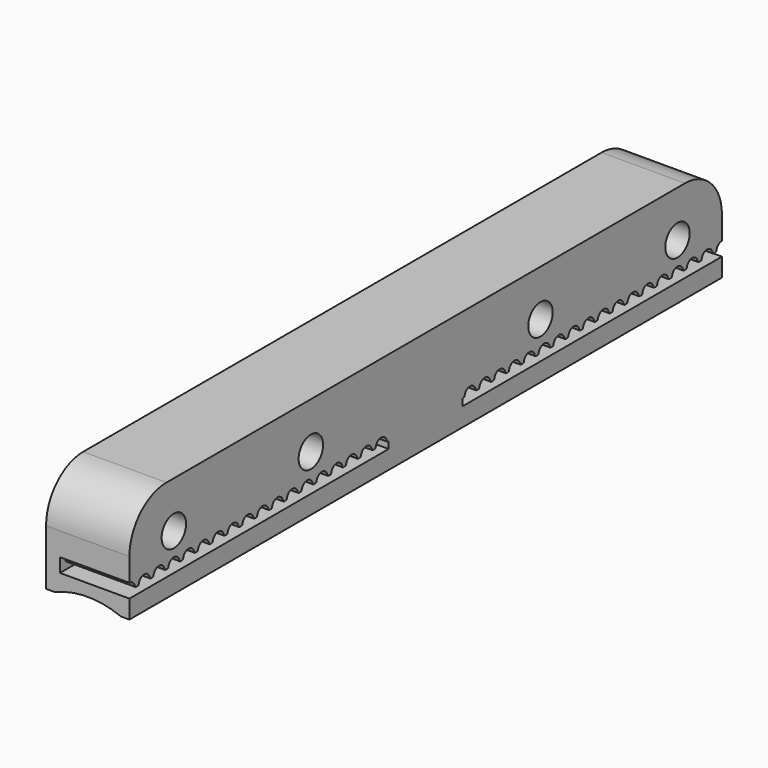
from build123d import *

# Parameters (mm, degrees)
F0_W     = 80
F0_H     = 11
F0_R     = 1.65
F1_DEPTH = 9
F3_DEPTH = 7.5
F4_R     = 5
F5_R     = 9.5
F6_DEPTH = 80.001


with BuildPart() as f1:
    # F0 (on Right) → F1 (new body)
    with BuildSketch(Plane.YZ):
        with Locations((40, 5.5)):
            Rectangle(F0_W, F0_H)
        with Locations((6, 6)):
            Circle(F0_R, mode=Mode.SUBTRACT)
        with Locations((24.5, 6)):
            Circle(F0_R, mode=Mode.SUBTRACT)
        with Locations((55.5, 6)):
            Circle(F0_R, mode=Mode.SUBTRACT)
        with Locations((74, 6)):
            Circle(F0_R, mode=Mode.SUBTRACT)
    extrude(amount=F1_DEPTH)

    # F2 (on face) → F3 (cut)
    with BuildSketch(Plane.YZ.offset(9)):
        with BuildLine():
            Line((-1, 2), (0, 2))
            Line((0, 2), (35, 2))
            Line((35, 2), (35, 2.75))
            Line((35, 2.75), (34.887412, 2.75))
            ThreePointArc((34.887412, 2.75), (34.790587, 2.785436), (34.73951, 2.875))
            ThreePointArc((34.73951, 2.875), (34, 3.5), (33.26049, 2.875))
            ThreePointArc((33.26049, 2.875), (33.209413, 2.785436), (33.112588, 2.75))
            Line((33.112588, 2.75), (32.887412, 2.75))
            ThreePointArc((32.887412, 2.75), (32.790587, 2.785436), (32.73951, 2.875))
            ThreePointArc((32.73951, 2.875), (32, 3.5), (31.26049, 2.875))
            ThreePointArc((31.26049, 2.875), (31.209413, 2.785436), (31.112588, 2.75))
            Line((31.112588, 2.75), (30.887412, 2.75))
            ThreePointArc((30.887412, 2.75), (30.790587, 2.785436), (30.73951, 2.875))
            ThreePointArc((30.73951, 2.875), (30, 3.5), (29.26049, 2.875))
            ThreePointArc((29.26049, 2.875), (29.209413, 2.785436), (29.112588, 2.75))
            Line((29.112588, 2.75), (28.887412, 2.75))
            ThreePointArc((28.887412, 2.75), (28.790587, 2.785436), (28.73951, 2.875))
            ThreePointArc((28.73951, 2.875), (28, 3.5), (27.26049, 2.875))
            ThreePointArc((27.26049, 2.875), (27.209413, 2.785436), (27.112588, 2.75))
            Line((27.112588, 2.75), (27, 2.75))
            Line((27, 2.75), (26.887412, 2.75))
            ThreePointArc((26.887412, 2.75), (26.790587, 2.785436), (26.73951, 2.875))
            ThreePointArc((26.73951, 2.875), (26, 3.5), (25.26049, 2.875))
            ThreePointArc((25.26049, 2.875), (25.209413, 2.785436), (25.112588, 2.75))
            Line((25.112588, 2.75), (24.887412, 2.75))
            ThreePointArc((24.887412, 2.75), (24.790587, 2.785436), (24.73951, 2.875))
            ThreePointArc((24.73951, 2.875), (24, 3.5), (23.26049, 2.875))
            ThreePointArc((23.26049, 2.875), (23.209413, 2.785436), (23.112588, 2.75))
            Line((23.112588, 2.75), (23, 2.75))
            Line((23, 2.75), (22.887412, 2.75))
            ThreePointArc((22.887412, 2.75), (22.790587, 2.785436), (22.73951, 2.875))
            ThreePointArc((22.73951, 2.875), (22, 3.5), (21.26049, 2.875))
            ThreePointArc((21.26049, 2.875), (21.209413, 2.785436), (21.112588, 2.75))
            Line((21.112588, 2.75), (20.887412, 2.75))
            ThreePointArc((20.887412, 2.75), (20.790587, 2.785436), (20.73951, 2.875))
            ThreePointArc((20.73951, 2.875), (20, 3.5), (19.26049, 2.875))
            ThreePointArc((19.26049, 2.875), (19.209413, 2.785436), (19.112588, 2.75))
            Line((19.112588, 2.75), (19, 2.75))
            Line((19, 2.75), (18.887412, 2.75))
            ThreePointArc((18.887412, 2.75), (18.790587, 2.785436), (18.73951, 2.875))
            ThreePointArc((18.73951, 2.875), (18, 3.5), (17.26049, 2.875))
            ThreePointArc((17.26049, 2.875), (17.209413, 2.785436), (17.112588, 2.75))
            Line((17.112588, 2.75), (16.887412, 2.75))
            ThreePointArc((16.887412, 2.75), (16.790587, 2.785436), (16.73951, 2.875))
            ThreePointArc((16.73951, 2.875), (16, 3.5), (15.26049, 2.875))
            ThreePointArc((15.26049, 2.875), (15.209413, 2.785436), (15.112588, 2.75))
            Line((15.112588, 2.75), (15, 2.75))
            Line((15, 2.75), (14.887412, 2.75))
            ThreePointArc((14.887412, 2.75), (14.790587, 2.785436), (14.73951, 2.875))
            ThreePointArc((14.73951, 2.875), (14, 3.5), (13.26049, 2.875))
            ThreePointArc((13.26049, 2.875), (13.209413, 2.785436), (13.112588, 2.75))
            Line((13.112588, 2.75), (12.887412, 2.75))
            ThreePointArc((12.887412, 2.75), (12.790587, 2.785436), (12.73951, 2.875))
            ThreePointArc((12.73951, 2.875), (12, 3.5), (11.26049, 2.875))
            ThreePointArc((11.26049, 2.875), (11.209413, 2.785436), (11.112588, 2.75))
            Line((11.112588, 2.75), (11, 2.75))
            Line((11, 2.75), (10.887412, 2.75))
            ThreePointArc((10.887412, 2.75), (10.790587, 2.785436), (10.73951, 2.875))
            ThreePointArc((10.73951, 2.875), (10, 3.5), (9.26049, 2.875))
            ThreePointArc((9.26049, 2.875), (9.209413, 2.785436), (9.112588, 2.75))
            Line((9.112588, 2.75), (8.887412, 2.75))
            ThreePointArc((8.887412, 2.75), (8.790587, 2.785436), (8.73951, 2.875))
            ThreePointArc((8.73951, 2.875), (8, 3.5), (7.26049, 2.875))
            ThreePointArc((7.26049, 2.875), (7.209413, 2.785436), (7.112588, 2.75))
            Line((7.112588, 2.75), (7, 2.75))
            Line((7, 2.75), (6.887412, 2.75))
            ThreePointArc((6.887412, 2.75), (6.790587, 2.785436), (6.73951, 2.875))
            ThreePointArc((6.73951, 2.875), (6, 3.5), (5.26049, 2.875))
            ThreePointArc((5.26049, 2.875), (5.209413, 2.785436), (5.112588, 2.75))
            Line((5.112588, 2.75), (4.887412, 2.75))
            ThreePointArc((4.887412, 2.75), (4.790587, 2.785436), (4.73951, 2.875))
            ThreePointArc((4.73951, 2.875), (4, 3.5), (3.26049, 2.875))
            ThreePointArc((3.26049, 2.875), (3.209413, 2.785436), (3.112588, 2.75))
            Line((3.112588, 2.75), (3, 2.75))
            Line((3, 2.75), (2.887412, 2.75))
            ThreePointArc((2.887412, 2.75), (2.790587, 2.785436), (2.73951, 2.875))
            ThreePointArc((2.73951, 2.875), (2, 3.5), (1.26049, 2.875))
            ThreePointArc((1.26049, 2.875), (1.209413, 2.785436), (1.112588, 2.75))
            Line((1.112588, 2.75), (0.887412, 2.75))
            ThreePointArc((0.887412, 2.75), (0.790587, 2.785436), (0.73951, 2.875))
            ThreePointArc((0.73951, 2.875), (0, 3.5), (-0.73951, 2.875))
            ThreePointArc((-0.73951, 2.875), (-0.790587, 2.785436), (-0.887412, 2.75))
            Line((-0.887412, 2.75), (-1, 2.75))
            Line((-1, 2.75), (-1, 2))
        make_face()
        with BuildLine():
            Line((45, 2.75), (45, 2))
            Line((45, 2), (80, 2))
            Line((80, 2), (81, 2))
            Line((81, 2), (81, 2.75))
            Line((81, 2.75), (80.887412, 2.75))
            ThreePointArc((80.887412, 2.75), (80.790587, 2.785436), (80.73951, 2.875))
            ThreePointArc((80.73951, 2.875), (80, 3.5), (79.26049, 2.875))
            ThreePointArc((79.26049, 2.875), (79.209413, 2.785436), (79.112588, 2.75))
            Line((79.112588, 2.75), (78.887412, 2.75))
            ThreePointArc((78.887412, 2.75), (78.790587, 2.785436), (78.73951, 2.875))
            ThreePointArc((78.73951, 2.875), (78, 3.5), (77.26049, 2.875))
            ThreePointArc((77.26049, 2.875), (77.209413, 2.785436), (77.112588, 2.75))
            Line((77.112588, 2.75), (77, 2.75))
            Line((77, 2.75), (76.887412, 2.75))
            ThreePointArc((76.887412, 2.75), (76.790587, 2.785436), (76.73951, 2.875))
            ThreePointArc((76.73951, 2.875), (76, 3.5), (75.26049, 2.875))
            ThreePointArc((75.26049, 2.875), (75.209413, 2.785436), (75.112588, 2.75))
            Line((75.112588, 2.75), (74.887412, 2.75))
            ThreePointArc((74.887412, 2.75), (74.790587, 2.785436), (74.73951, 2.875))
            ThreePointArc((74.73951, 2.875), (74, 3.5), (73.26049, 2.875))
            ThreePointArc((73.26049, 2.875), (73.209413, 2.785436), (73.112588, 2.75))
            Line((73.112588, 2.75), (73, 2.75))
            Line((73, 2.75), (72.887412, 2.75))
            ThreePointArc((72.887412, 2.75), (72.790587, 2.785436), (72.73951, 2.875))
            ThreePointArc((72.73951, 2.875), (72, 3.5), (71.26049, 2.875))
            ThreePointArc((71.26049, 2.875), (71.209413, 2.785436), (71.112588, 2.75))
            Line((71.112588, 2.75), (70.887412, 2.75))
            ThreePointArc((70.887412, 2.75), (70.790587, 2.785436), (70.73951, 2.875))
            ThreePointArc((70.73951, 2.875), (70, 3.5), (69.26049, 2.875))
            ThreePointArc((69.26049, 2.875), (69.209413, 2.785436), (69.112588, 2.75))
            Line((69.112588, 2.75), (69, 2.75))
            Line((69, 2.75), (68.887412, 2.75))
            ThreePointArc((68.887412, 2.75), (68.790587, 2.785436), (68.73951, 2.875))
            ThreePointArc((68.73951, 2.875), (68, 3.5), (67.26049, 2.875))
            ThreePointArc((67.26049, 2.875), (67.209413, 2.785436), (67.112588, 2.75))
            Line((67.112588, 2.75), (66.887412, 2.75))
            ThreePointArc((66.887412, 2.75), (66.790587, 2.785436), (66.73951, 2.875))
            ThreePointArc((66.73951, 2.875), (66, 3.5), (65.26049, 2.875))
            ThreePointArc((65.26049, 2.875), (65.209413, 2.785436), (65.112588, 2.75))
            Line((65.112588, 2.75), (65, 2.75))
            Line((65, 2.75), (64.887412, 2.75))
            ThreePointArc((64.887412, 2.75), (64.790587, 2.785436), (64.73951, 2.875))
            ThreePointArc((64.73951, 2.875), (64, 3.5), (63.26049, 2.875))
            ThreePointArc((63.26049, 2.875), (63.209413, 2.785436), (63.112588, 2.75))
            Line((63.112588, 2.75), (62.887412, 2.75))
            ThreePointArc((62.887412, 2.75), (62.790587, 2.785436), (62.73951, 2.875))
            ThreePointArc((62.73951, 2.875), (62, 3.5), (61.26049, 2.875))
            ThreePointArc((61.26049, 2.875), (61.209413, 2.785436), (61.112588, 2.75))
            Line((61.112588, 2.75), (61, 2.75))
            Line((61, 2.75), (60.887412, 2.75))
            ThreePointArc((60.887412, 2.75), (60.790587, 2.785436), (60.73951, 2.875))
            ThreePointArc((60.73951, 2.875), (60, 3.5), (59.26049, 2.875))
            ThreePointArc((59.26049, 2.875), (59.209413, 2.785436), (59.112588, 2.75))
            Line((59.112588, 2.75), (58.887412, 2.75))
            ThreePointArc((58.887412, 2.75), (58.790587, 2.785436), (58.73951, 2.875))
            ThreePointArc((58.73951, 2.875), (58, 3.5), (57.26049, 2.875))
            ThreePointArc((57.26049, 2.875), (57.209413, 2.785436), (57.112588, 2.75))
            Line((57.112588, 2.75), (57, 2.75))
            Line((57, 2.75), (56.887412, 2.75))
            ThreePointArc((56.887412, 2.75), (56.790587, 2.785436), (56.73951, 2.875))
            ThreePointArc((56.73951, 2.875), (56, 3.5), (55.26049, 2.875))
            ThreePointArc((55.26049, 2.875), (55.209413, 2.785436), (55.112588, 2.75))
            Line((55.112588, 2.75), (54.887412, 2.75))
            ThreePointArc((54.887412, 2.75), (54.790587, 2.785436), (54.73951, 2.875))
            ThreePointArc((54.73951, 2.875), (54, 3.5), (53.26049, 2.875))
            ThreePointArc((53.26049, 2.875), (53.209413, 2.785436), (53.112588, 2.75))
            Line((53.112588, 2.75), (53, 2.75))
            Line((53, 2.75), (52.887412, 2.75))
            ThreePointArc((52.887412, 2.75), (52.790587, 2.785436), (52.73951, 2.875))
            ThreePointArc((52.73951, 2.875), (52, 3.5), (51.26049, 2.875))
            ThreePointArc((51.26049, 2.875), (51.209413, 2.785436), (51.112588, 2.75))
            Line((51.112588, 2.75), (50.887412, 2.75))
            ThreePointArc((50.887412, 2.75), (50.790587, 2.785436), (50.73951, 2.875))
            ThreePointArc((50.73951, 2.875), (50, 3.5), (49.26049, 2.875))
            ThreePointArc((49.26049, 2.875), (49.209413, 2.785436), (49.112588, 2.75))
            Line((49.112588, 2.75), (49, 2.75))
            Line((49, 2.75), (48.887412, 2.75))
            ThreePointArc((48.887412, 2.75), (48.790587, 2.785436), (48.73951, 2.875))
            ThreePointArc((48.73951, 2.875), (48, 3.5), (47.26049, 2.875))
            ThreePointArc((47.26049, 2.875), (47.209413, 2.785436), (47.112588, 2.75))
            Line((47.112588, 2.75), (46.887412, 2.75))
            ThreePointArc((46.887412, 2.75), (46.790587, 2.785436), (46.73951, 2.875))
            ThreePointArc((46.73951, 2.875), (46, 3.5), (45.26049, 2.875))
            ThreePointArc((45.26049, 2.875), (45.209413, 2.785436), (45.112588, 2.75))
            Line((45.112588, 2.75), (45, 2.75))
        make_face()
    extrude(amount=-F3_DEPTH, mode=Mode.SUBTRACT)

    # F4
    f4_edges = [f1.edges().sort_by_distance(p)[0] for p in [
        (4.5, 0, 11),
        (4.5, 80, 11),
    ]]
    fillet(f4_edges, radius=F4_R)

    # F5 (on Front) → F6 (cut, through all)
    with BuildSketch(Plane.XZ):
        with Locations((4.5, -8.8)):
            Circle(F5_R)
    extrude(amount=-F6_DEPTH, mode=Mode.SUBTRACT)


solid = f1.part
